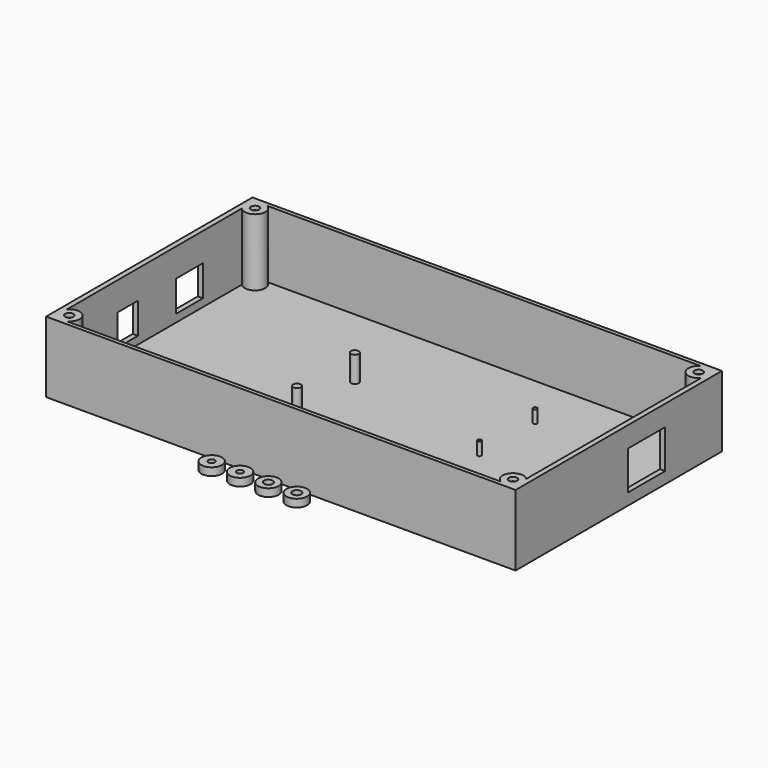
from build123d import *

# Parameters (mm, degrees)
CYLINDER_R        = 1.7
CYLINDER_DEPTH    = 3
CYLINDER004_R     = 4
CYLINDER004_DEPTH = 3
CYLINDER009_R     = 1.25
CYLINDER009_DEPTH = 10
CYLINDER010_R     = 4
CYLINDER010_DEPTH = 3
CYLINDER011_R     = 1.25
CYLINDER011_DEPTH = 10
CYLINDER012_R     = 4
CYLINDER012_DEPTH = 3
EXTRUDE_DEPTH     = 26
BOX_W             = 10
BOX_H             = 13
BOX_DEPTH         = 12
BOX001_W          = 10
BOX001_H          = 10
BOX001_DEPTH      = 12
BOX002_W          = 21
BOX002_H          = 18
BOX002_DEPTH      = 15
CYLINDER008_R     = 0.75
CYLINDER008_DEPTH = 5
SKETCH003_W       = 182
SKETCH003_H       = 100
SKETCH003_R       = 1.6
EXTRUDE004_DEPTH  = 26
CYLINDER002_R     = 1.5
CYLINDER002_DEPTH = 10
CYLINDER003_R     = 1.5
CYLINDER003_DEPTH = 10
SKETCH002_W       = 182
SKETCH002_H       = 100
EXTRUDE002_DEPTH  = 1.5
CYLINDER007_R     = 0.75
CYLINDER007_DEPTH = 5
CYLINDER013_R     = 1.7
CYLINDER013_DEPTH = 3
CYLINDER014_R     = 4
CYLINDER014_DEPTH = 3


with BuildPart() as zylinder:
    # Cylinder → Cylinder (new body)
    with BuildSketch(Plane.XY):
        Circle(CYLINDER_R)
    extrude(amount=CYLINDER_DEPTH)


with BuildPart() as cut_mutterscheibe001:
    # Cylinder004 → Cylinder004 (new body)
    with BuildSketch(Plane.XY):
        Circle(CYLINDER004_R)
    extrude(amount=CYLINDER004_DEPTH)

    # Cut002: cut Zylinder
    add(zylinder.part, mode=Mode.SUBTRACT)


with BuildPart() as cut_mutterscheibe001_1:
    # Cut002 placement: moved
    add(cut_mutterscheibe001.part.moved(Location((11, -56, -1.5))))


with BuildPart() as zylinder006:
    # Cylinder009 → Cylinder009 (new body)
    with BuildSketch(Plane.XY):
        Circle(CYLINDER009_R)
    extrude(amount=CYLINDER009_DEPTH)


with BuildPart() as cut_mutterscheibe_klein:
    # Cylinder010 → Cylinder010 (new body)
    with BuildSketch(Plane.XY):
        Circle(CYLINDER010_R)
    extrude(amount=CYLINDER010_DEPTH)

    # Cut003: cut Zylinder006
    add(zylinder006.part, mode=Mode.SUBTRACT)


with BuildPart() as cut_mutterscheibe_klein_1:
    # Cut003 placement: moved
    add(cut_mutterscheibe_klein.part.moved(Location((-22, -56, -1.5))))


with BuildPart() as zylinder008:
    # Cylinder011 → Cylinder011 (new body)
    with BuildSketch(Plane.XY):
        Circle(CYLINDER011_R)
    extrude(amount=CYLINDER011_DEPTH)


with BuildPart() as cut_mutterscheibe_klein001:
    # Cylinder012 → Cylinder012 (new body)
    with BuildSketch(Plane.XY):
        Circle(CYLINDER012_R)
    extrude(amount=CYLINDER012_DEPTH)

    # Cut004: cut Zylinder008
    add(zylinder008.part, mode=Mode.SUBTRACT)


with BuildPart() as cut_mutterscheibe_klein001_1:
    # Cut004 placement: moved
    add(cut_mutterscheibe_klein001.part.moved(Location((-11, -56, -1.5))))


with BuildPart() as obj1:
    # Sketch → Extrude (new body)
    with BuildSketch(Plane(origin=(0, 0, -1.5), x_dir=(1, 0, 0), z_dir=(0, 0, -1))):
        Polygon((-85.120015, 41.715852), (-82.715852, 44.120015), (-83.595837, 47.404163), (-86.879985, 48.284148), (-89.284148, 45.879985), (-88.404163, 42.595837), align=None)
        Polygon((89.284148, 45.879985), (86.879985, 48.284148), (83.595837, 47.404163), (82.715852, 44.120015), (85.120015, 41.715852), (88.404163, 42.595837), align=None)
        Polygon((89.284148, -45.879985), (88.404163, -42.595837), (85.120015, -41.715852), (82.715852, -44.120015), (83.595837, -47.404163), (86.879985, -48.284148), align=None)
        Polygon((-85.120015, -41.715852), (-88.404163, -42.595837), (-89.284148, -45.879985), (-86.879985, -48.284148), (-83.595837, -47.404163), (-82.715852, -44.120015), align=None)
    extrude(amount=-EXTRUDE_DEPTH)


with BuildPart() as obj2:
    # Box → Box (new body)
    with BuildSketch(Plane(origin=(-93, 10.5, 3), x_dir=(1, 0, 0), z_dir=(0, 0, 1))):
        with Locations((5, 6.5)):
            Rectangle(BOX_W, BOX_H)
    extrude(amount=BOX_DEPTH)


with BuildPart() as obj3:
    # Box001 → Box001 (new body)
    with BuildSketch(Plane(origin=(-93, -18, 3), x_dir=(1, 0, 0), z_dir=(0, 0, 1))):
        with Locations((5, 5)):
            Rectangle(BOX001_W, BOX001_H)
    extrude(amount=BOX001_DEPTH)


with BuildPart() as fusion_minus:
    # Box002 → Box002 (new body)
    with BuildSketch(Plane(origin=(70, 4.5, 3), x_dir=(1, 0, 0), z_dir=(0, 0, 1))):
        with Locations((10.5, 9)):
            Rectangle(BOX002_W, BOX002_H)
    extrude(amount=BOX002_DEPTH)

    # Fusion: union obj1, obj2, obj3
    add(obj1.part)
    add(obj2.part)
    add(obj3.part)


with BuildPart() as zylinder005:
    # Cylinder008 → Cylinder008 (new body)
    with BuildSketch(Plane(origin=(37, 0, 0), x_dir=(1, 0, 0), z_dir=(0, 0, 1))):
        Circle(CYLINDER008_R)
    extrude(amount=CYLINDER008_DEPTH)


with BuildPart() as obj4:
    # Sketch003 → Extrude004 (new body)
    with BuildSketch(Plane.XY):
        Rectangle(SKETCH003_W, SKETCH003_H)
        with Locations((-86, 45)):
            Circle(SKETCH003_R, mode=Mode.SUBTRACT)
        with Locations((86, 45)):
            Circle(SKETCH003_R, mode=Mode.SUBTRACT)
        with Locations((86, -45)):
            Circle(SKETCH003_R, mode=Mode.SUBTRACT)
        with Locations((-86, -45)):
            Circle(SKETCH003_R, mode=Mode.SUBTRACT)
        with BuildLine():
            Line((-84.063508, 48.5), (84.063508, 48.5))
            ThreePointArc((84.063508, 48.5), (82.881454, 42.49507), (89, 42.354249))
            Line((89, 42.354249), (89, -42.354249))
            ThreePointArc((89, -42.354249), (82.881454, -42.49507), (84.063508, -48.5))
            Line((84.063508, -48.5), (-84.063508, -48.5))
            ThreePointArc((-84.063508, -48.5), (-82.881454, -42.49507), (-89, -42.354249))
            Line((-89, -42.354249), (-89, 42.354249))
            ThreePointArc((-89, 42.354249), (-82.881454, 42.49507), (-84.063508, 48.5))
        make_face(mode=Mode.SUBTRACT)
    extrude(amount=EXTRUDE004_DEPTH)


with BuildPart() as zylinder_schraube:
    # Cylinder002 → Cylinder002 (new body)
    with BuildSketch(Plane(origin=(-22.5, -14, 0), x_dir=(1, 0, 0), z_dir=(0, 0, 1))):
        Circle(CYLINDER002_R)
    extrude(amount=CYLINDER002_DEPTH)


with BuildPart() as zylinder_schraube001:
    # Cylinder003 → Cylinder003 (new body)
    with BuildSketch(Plane(origin=(-22.5, 14, 0), x_dir=(1, 0, 0), z_dir=(0, 0, 1))):
        Circle(CYLINDER003_R)
    extrude(amount=CYLINDER003_DEPTH)


with BuildPart() as extrude_boden:
    # Sketch002 → Extrude002 (new body)
    with BuildSketch(Plane.XY):
        Rectangle(SKETCH002_W, SKETCH002_H)
        Polygon((-82.715852, 44.120015), (-83.595837, 47.404163), (-86.879985, 48.284148), (-89.284148, 45.879985), (-88.404163, 42.595837), (-85.120015, 41.715852), align=None, mode=Mode.SUBTRACT)
        Polygon((-86.879985, -48.284148), (-83.595837, -47.404163), (-82.715852, -44.120015), (-85.120015, -41.715852), (-88.404163, -42.595837), (-89.284148, -45.879985), align=None, mode=Mode.SUBTRACT)
        Polygon((85.120015, 41.715852), (88.404163, 42.595837), (89.284148, 45.879985), (86.879985, 48.284148), (83.595837, 47.404163), (82.715852, 44.120015), align=None, mode=Mode.SUBTRACT)
        Polygon((89.284148, -45.879985), (88.404163, -42.595837), (85.120015, -41.715852), (82.715852, -44.120015), (83.595837, -47.404163), (86.879985, -48.284148), align=None, mode=Mode.SUBTRACT)
    extrude(amount=-EXTRUDE002_DEPTH)


with BuildPart() as cut_whole_thing:
    # Cylinder007 → Cylinder007 (new body)
    with BuildSketch(Plane(origin=(37, 27, 0), x_dir=(1, 0, 0), z_dir=(0, 0, 1))):
        Circle(CYLINDER007_R)
    extrude(amount=CYLINDER007_DEPTH)

    # Fusion001: union Zylinder005, obj4, Zylinder Schraube, Zylinder Schraube001, Extrude Boden
    add(zylinder005.part)
    add(obj4.part)
    add(zylinder_schraube.part)
    add(zylinder_schraube001.part)
    add(extrude_boden.part)

    # Cut: cut Fusion Minus
    add(fusion_minus.part, mode=Mode.SUBTRACT)


with BuildPart() as zylinder010:
    # Cylinder013 → Cylinder013 (new body)
    with BuildSketch(Plane.XY):
        Circle(CYLINDER013_R)
    extrude(amount=CYLINDER013_DEPTH)


with BuildPart() as cut_mutterscheibe:
    # Cylinder014 → Cylinder014 (new body)
    with BuildSketch(Plane.XY):
        Circle(CYLINDER014_R)
    extrude(amount=CYLINDER014_DEPTH)

    # Cut005: cut Zylinder010
    add(zylinder010.part, mode=Mode.SUBTRACT)


with BuildPart() as cut_mutterscheibe_1:
    # Cut005 placement: moved
    add(cut_mutterscheibe.part.moved(Location((0, -56, -1.5))))


solid = Compound([cut_mutterscheibe001_1.part, cut_mutterscheibe_klein_1.part, cut_mutterscheibe_klein001_1.part, cut_whole_thing.part, cut_mutterscheibe_1.part])
